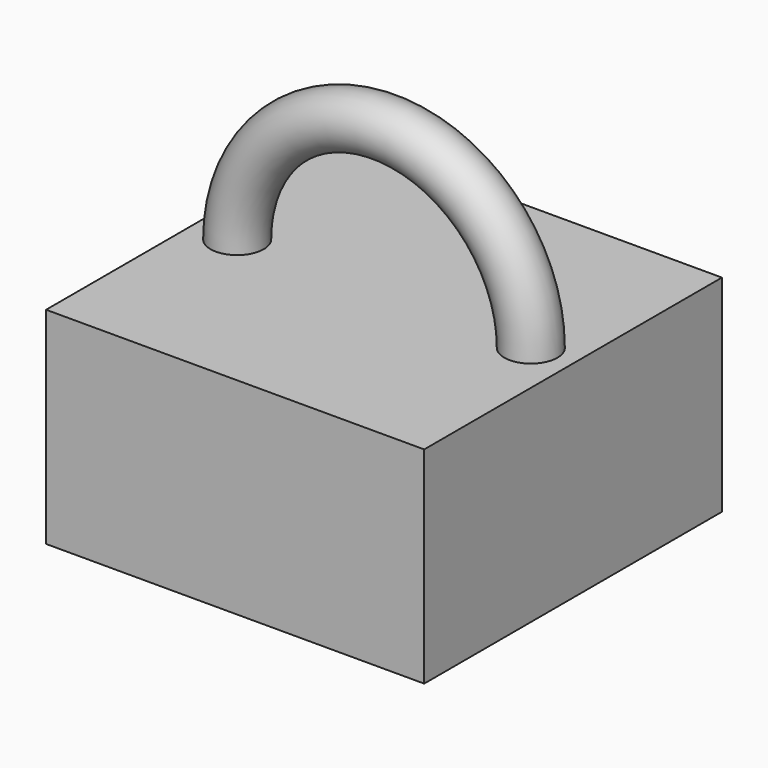
from build123d import *

# Parameters (mm, degrees)
F0_W     = 69.863096
F0_H     = 137.526572
F2_DEPTH = 76.2
F1_R     = 9.824635
F3_ANGLE = 180


with BuildPart() as f2:
    # F0 (on Top) → F2 (new body)
    with BuildSketch(Plane.XY):
        with Locations((34.931548, 0)):
            Rectangle(F0_W, F0_H)
        with Locations((-34.931548, 0)):
            Rectangle(F0_W, F0_H)
    extrude(amount=-F2_DEPTH)

    # F1 (on Top) → F3 (revolve)
    with BuildSketch(Plane.XY):
        with Locations((54.264009, 0)):
            Circle(F1_R)
    revolve(axis=Axis((0, 0, 0), (0, -1, 0)), revolution_arc=F3_ANGLE)


solid = f2.part
